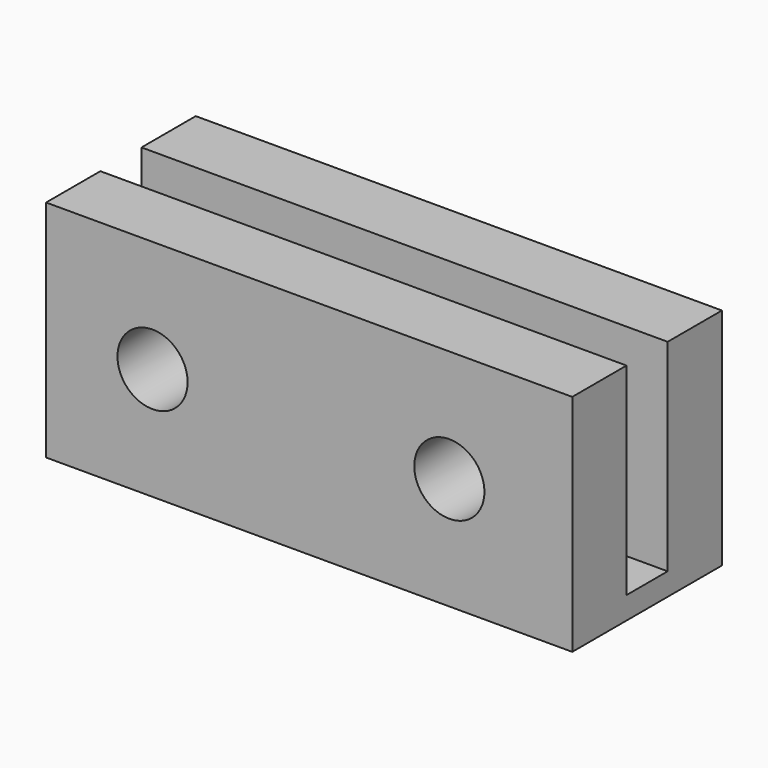
from build123d import *

# Parameters (mm, degrees)
F0_W     = 28.575
F0_H     = 10.16
F1_DEPTH = 12.192
F2_W     = 28.575
F2_H     = 2.794
F3_DEPTH = 10.9728
F4_R     = 1.905
F5_DEPTH = 25.4


with BuildPart() as f1:
    # F0 (on Top) → F1 (new body)
    with BuildSketch(Plane.XY):
        Rectangle(F0_W, F0_H)
    extrude(amount=F1_DEPTH)

    # F2 (on face) → F3 (cut)
    with BuildSketch(Plane.XY.offset(12.192)):
        Rectangle(F2_W, F2_H)
    extrude(amount=-F3_DEPTH, mode=Mode.SUBTRACT)

    # F4 (on face) → F5 (cut)
    with BuildSketch(Plane.XZ.offset(5.08)):
        with Locations((-8.50641, 6.096)):
            Circle(F4_R)
        with Locations((7.61332, 6.096)):
            Circle(F4_R)
    extrude(amount=-F5_DEPTH, mode=Mode.SUBTRACT)


solid = f1.part
